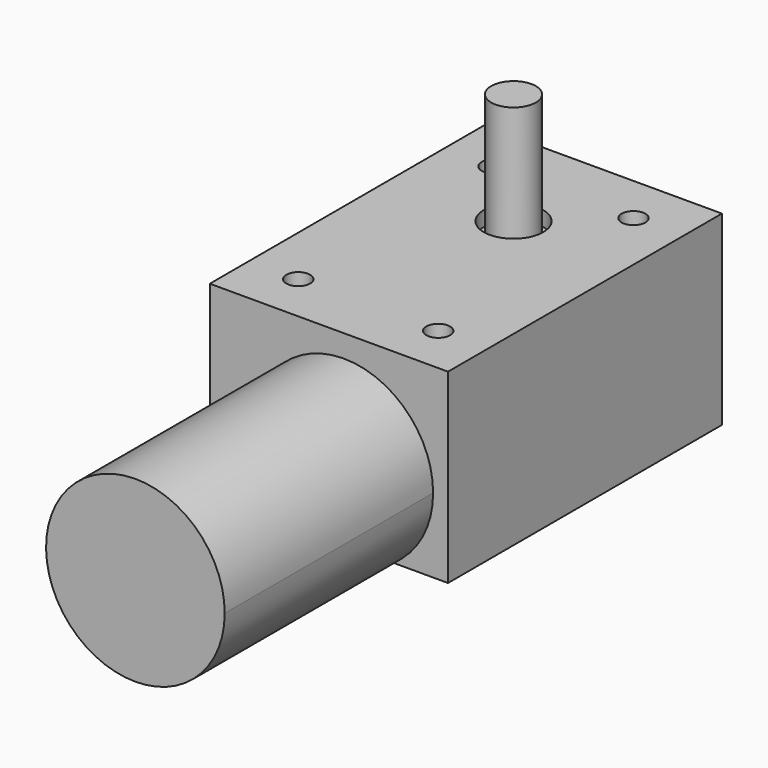
from build123d import *

# Parameters (mm, degrees)
F0_W     = 32
F0_H     = 46
F0_R     = 1.6
F0_R_2   = 4
F1_DEPTH = 25
F3_DEPTH = 35
F0_R_3   = 3
F4_DEPTH = 23
F5_DEPTH = 40


with BuildPart() as f1:
    # F0 (on Top) → F1 (new body)
    with BuildSketch(Plane.XY):
        with Locations((16, 23)):
            Rectangle(F0_W, F0_H)
        with Locations((6.6, 6.6)):
            Circle(F0_R, mode=Mode.SUBTRACT)
        with Locations((25.4, 6.6)):
            Circle(F0_R, mode=Mode.SUBTRACT)
        with Locations((6.6, 39.4)):
            Circle(F0_R, mode=Mode.SUBTRACT)
        with Locations((16, 31)):
            Circle(F0_R_2, mode=Mode.SUBTRACT)
        with Locations((25.4, 39.4)):
            Circle(F0_R, mode=Mode.SUBTRACT)
    extrude(amount=F1_DEPTH)

    # F2 (on face) → F3 (join)
    with BuildSketch(Plane.XZ):
        with BuildLine():
            ThreePointArc((24.63325, 0), (28.573528, 4.325451), (30, 10))
            ThreePointArc((30, 10), (12.325451, 20.573528), (11.36675, 0))
            Line((11.36675, 0), (24.63325, 0))
        make_face()
        with BuildLine():
            Line((24.63325, 0), (11.36675, 0))
            ThreePointArc((11.36675, 0), (18, -2), (24.63325, 0))
        make_face()
    extrude(amount=F3_DEPTH)

    # F0 (on Top) → F4 (join)
    with BuildSketch(Plane.XY):
        with Locations((16, 31)):
            Circle(F0_R_2)
        with Locations((16, 31)):
            Circle(F0_R_3, mode=Mode.SUBTRACT)
    extrude(amount=F4_DEPTH)

    # F0 (on Top) → F5 (join)
    with BuildSketch(Plane.XY):
        with Locations((16, 31)):
            Circle(F0_R_3)
    extrude(amount=F5_DEPTH)


solid = f1.part
